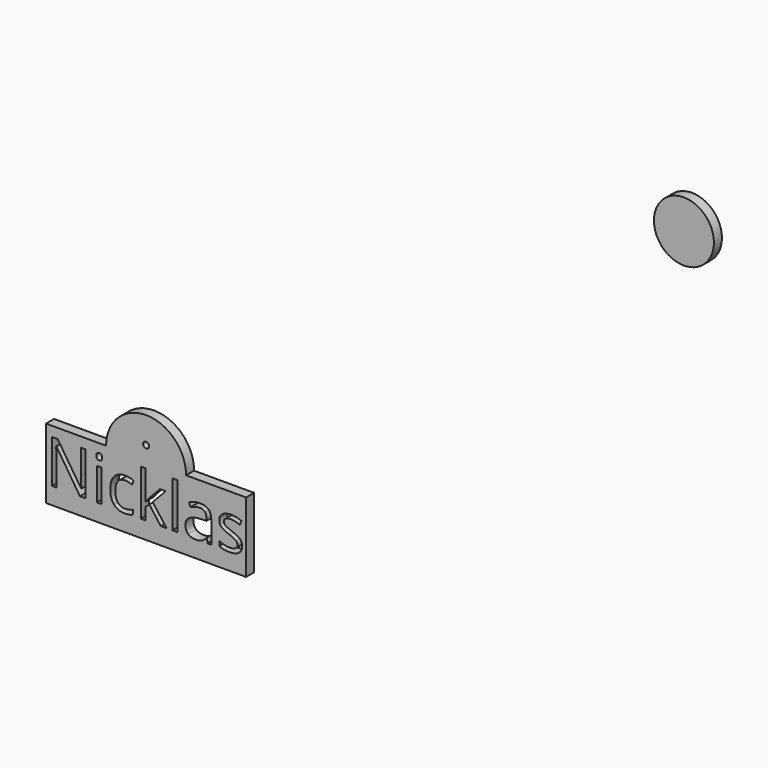
from build123d import *

# Parameters (mm, degrees)
F0_W     = 2.4478822753
F0_H     = 16.1541364022
F0_H_2   = 22.9365154231
F0_R     = 1.5
F1_DEPTH = 5
F0_R_2   = 15


with BuildPart() as f1:
    # F0 (on Front) → F1 (new body)
    with BuildSketch(Plane.XZ):
        Polygon((-230.908769023, -170.0551700472), (-260.908769023, -170.0551700472), (-260.908769023, -205.0551700472), (-160.908769023, -205.0551700472), (-160.908769023, -170.0551700472), (-190.908769023, -170.0551700472), align=None)
        with BuildLine():
            Line((-241.113466693, -174.9745553729), (-241.113466693, -196.5244091602))
            Line((-241.113466693, -196.5244091602), (-243.9716876156, -196.5244091602))
            Line((-243.9716876156, -196.5244091602), (-255.7488784466, -178.4412094621))
            Line((-255.7488784466, -178.4412094621), (-255.866791851, -178.4412094621))
            add(Edge.make_bspline(
                [(-255.866791851, -178.4412094621), (-255.6309650422, -181.6248713808), (-255.6309650422, -184.2755647116)],
                knots=[0, 0, 0, 1, 1, 1], degree=2))
            Line((-255.6309650422, -184.2755647116), (-255.6309650422, -196.5244091602))
            Line((-255.6309650422, -196.5244091602), (-257.9467843046, -196.5244091602))
            Line((-257.9467843046, -196.5244091602), (-257.9467843046, -174.9745553729))
            Line((-257.9467843046, -174.9745553729), (-255.1168625991, -174.9745553729))
            Line((-255.1168625991, -174.9745553729), (-243.3679709851, -192.9870070284))
            Line((-243.3679709851, -192.9870070284), (-243.2500575807, -192.9870070284))
            add(Edge.make_bspline(
                [(-243.2500575807, -192.9870070284), (-243.2783567977, -192.5908179896), (-243.3821205936, -190.4306444211)],
                knots=[0, 0, 0, 1, 1, 1], degree=2))
            add(Edge.make_bspline(
                [(-243.3821205936, -190.4306444211), (-243.4858843895, -188.2704708525), (-243.4575851724, -187.3413132259)],
                knots=[0, 0, 0, 1, 1, 1], degree=2))
            Line((-243.4575851724, -187.3413132259), (-243.4575851724, -174.9745553729))
            Line((-243.4575851724, -174.9745553729), (-241.113466693, -174.9745553729))
        make_face(mode=Mode.SUBTRACT)
        with Locations((-234.3334459403, -188.4473409591)):
            Rectangle(F0_W, F0_H, mode=Mode.SUBTRACT)
        with BuildLine():
            add(Edge.make_bspline(
                [(-217.3845731924, -195.9772909638), (-219.0023451007, -196.8215509393), (-221.4643769845, -196.8215509393)],
                knots=[0, 0, 0, 1, 1, 1], degree=2))
            add(Edge.make_bspline(
                [(-221.4643769845, -196.8215509393), (-224.9734798993, -196.8215509393), (-226.8978266591, -194.6613773708)],
                knots=[0, 0, 0, 1, 1, 1], degree=2))
            add(Edge.make_bspline(
                [(-226.8978266591, -194.6613773708), (-228.8221734188, -192.5012038022), (-228.8221734188, -188.5487464869)],
                knots=[0, 0, 0, 1, 1, 1], degree=2))
            add(Edge.make_bspline(
                [(-228.8221734188, -188.5487464869), (-228.8221734188, -184.4972419119), (-226.8671691739, -182.2851864454)],
                knots=[0, 0, 0, 1, 1, 1], degree=2))
            add(Edge.make_bspline(
                [(-226.8671691739, -182.2851864454), (-224.912164929, -180.0731309789), (-221.3040147545, -180.0731309789)],
                knots=[0, 0, 0, 1, 1, 1], degree=2))
            add(Edge.make_bspline(
                [(-221.3040147545, -180.0731309789), (-220.1390303191, -180.0731309789), (-218.9740458837, -180.3254656643)],
                knots=[0, 0, 0, 1, 1, 1], degree=2))
            add(Edge.make_bspline(
                [(-218.9740458837, -180.3254656643), (-217.8090614482, -180.5778003497), (-217.1487463836, -180.9173909544)],
                knots=[0, 0, 0, 1, 1, 1], degree=2))
            Line((-217.1487463836, -180.9173909544), (-217.8986756356, -182.9926668718))
            add(Edge.make_bspline(
                [(-217.8986756356, -182.9926668718), (-218.7099198578, -182.6672258756), (-219.6673767015, -182.4549817477)],
                knots=[0, 0, 0, 1, 1, 1], degree=2))
            add(Edge.make_bspline(
                [(-219.6673767015, -182.4549817477), (-220.6248335452, -182.2427376198), (-221.3606131886, -182.2427376198)],
                knots=[0, 0, 0, 1, 1, 1], degree=2))
            add(Edge.make_bspline(
                [(-221.3606131886, -182.2427376198), (-226.2846769562, -182.2427376198), (-226.2846769562, -188.5204472698)],
                knots=[0, 0, 0, 1, 1, 1], degree=2))
            add(Edge.make_bspline(
                [(-226.2846769562, -188.5204472698), (-226.2846769562, -191.4965815968), (-225.0843184994, -193.0884125561)],
                knots=[0, 0, 0, 1, 1, 1], degree=2))
            add(Edge.make_bspline(
                [(-225.0843184994, -193.0884125561), (-223.8839600427, -194.6802435155), (-221.5256919548, -194.6802435155)],
                knots=[0, 0, 0, 1, 1, 1], degree=2))
            add(Edge.make_bspline(
                [(-221.5256919548, -194.6802435155), (-219.5070144715, -194.6802435155), (-217.3845731924, -193.8124008591)],
                knots=[0, 0, 0, 1, 1, 1], degree=2))
            Line((-217.3845731924, -193.8124008591), (-217.3845731924, -195.9772909638))
        make_face(mode=Mode.SUBTRACT)
        with BuildLine():
            add(Edge.make_bspline(
                [(-235.3522177542, -177.2243431287), (-235.7649146696, -176.8187210176), (-235.7649146696, -175.9933271868)],
                knots=[0, 0, 0, 1, 1, 1], degree=2))
            add(Edge.make_bspline(
                [(-235.7649146696, -175.9933271868), (-235.7649146696, -175.1537837475), (-235.3522177542, -174.7623112449)],
                knots=[0, 0, 0, 1, 1, 1], degree=2))
            add(Edge.make_bspline(
                [(-235.3522177542, -174.7623112449), (-234.9395208388, -174.3708387423), (-234.3169380636, -174.3708387423)],
                knots=[0, 0, 0, 1, 1, 1], degree=2))
            add(Edge.make_bspline(
                [(-234.3169380636, -174.3708387423), (-233.7273710417, -174.3708387423), (-233.3005245177, -174.7693860492)],
                knots=[0, 0, 0, 1, 1, 1], degree=2))
            add(Edge.make_bspline(
                [(-233.3005245177, -174.7693860492), (-232.8736779938, -175.1679333561), (-232.8736779938, -175.9933271868)],
                knots=[0, 0, 0, 1, 1, 1], degree=2))
            add(Edge.make_bspline(
                [(-232.8736779938, -175.9933271868), (-232.8736779938, -176.8187210176), (-233.3005245177, -177.2243431287)],
                knots=[0, 0, 0, 1, 1, 1], degree=2))
            add(Edge.make_bspline(
                [(-233.3005245177, -177.2243431287), (-233.7273710417, -177.6299652398), (-234.3169380636, -177.6299652398)],
                knots=[0, 0, 0, 1, 1, 1], degree=2))
            add(Edge.make_bspline(
                [(-234.3169380636, -177.6299652398), (-234.9395208388, -177.6299652398), (-235.3522177542, -177.2243431287)],
                knots=[0, 0, 0, 1, 1, 1], degree=2))
        make_face(mode=Mode.SUBTRACT)
        with BuildLine():
            Line((-211.2483596276, -188.256321244), (-211.1304462232, -188.256321244))
            add(Edge.make_bspline(
                [(-211.1304462232, -188.256321244), (-210.4984303757, -187.3554628344), (-209.2013829273, -185.8980531561)],
                knots=[0, 0, 0, 1, 1, 1], degree=2))
            Line((-209.2013829273, -185.8980531561), (-203.9848939169, -180.370272758))
            Line((-203.9848939169, -180.370272758), (-201.0795076325, -180.370272758))
            Line((-201.0795076325, -180.370272758), (-207.6260598446, -187.2516990385))
            Line((-207.6260598446, -187.2516990385), (-200.6220036235, -196.5244091602))
            Line((-200.6220036235, -196.5244091602), (-203.5839883419, -196.5244091602))
            Line((-203.5839883419, -196.5244091602), (-209.2909971147, -188.8883370916))
            Line((-209.2909971147, -188.8883370916), (-211.1304462232, -190.482526319))
            Line((-211.1304462232, -190.482526319), (-211.1304462232, -196.5244091602))
            Line((-211.1304462232, -196.5244091602), (-213.5500292814, -196.5244091602))
            Line((-213.5500292814, -196.5244091602), (-213.5500292814, -173.5878937372))
            Line((-213.5500292814, -173.5878937372), (-211.1304462232, -173.5878937372))
            Line((-211.1304462232, -173.5878937372), (-211.1304462232, -185.7518405346))
            add(Edge.make_bspline(
                [(-211.1304462232, -185.7518405346), (-211.1304462232, -186.5583682207), (-211.2483596276, -188.256321244)],
                knots=[0, 0, 0, 1, 1, 1], degree=2))
        make_face(mode=Mode.SUBTRACT)
        with Locations((-196.4832431292, -185.0561514487)):
            Rectangle(F0_W, F0_H_2, mode=Mode.SUBTRACT)
        with BuildLine():
            Line((-178.3222205842, -196.5244091602), (-180.1380870118, -196.5244091602))
            Line((-180.1380870118, -196.5244091602), (-180.623890238, -194.2227395064))
            Line((-180.623890238, -194.2227395064), (-180.7418036424, -194.2227395064))
            add(Edge.make_bspline(
                [(-180.7418036424, -194.2227395064), (-181.9492369034, -195.741464155), (-183.1495953601, -196.2815075472)],
                knots=[0, 0, 0, 1, 1, 1], degree=2))
            add(Edge.make_bspline(
                [(-183.1495953601, -196.2815075472), (-184.3499538169, -196.8215509393), (-186.151670636, -196.8215509393)],
                knots=[0, 0, 0, 1, 1, 1], degree=2))
            add(Edge.make_bspline(
                [(-186.151670636, -196.8215509393), (-188.5523875495, -196.8215509393), (-189.9154665043, -195.5811019251)],
                knots=[0, 0, 0, 1, 1, 1], degree=2))
            add(Edge.make_bspline(
                [(-189.9154665043, -195.5811019251), (-191.2785454592, -194.3406529108), (-191.2785454592, -192.0578494017)],
                knots=[0, 0, 0, 1, 1, 1], degree=2))
            add(Edge.make_bspline(
                [(-191.2785454592, -192.0578494017), (-191.2785454592, -187.1668013874), (-183.4538119435, -186.9309745786)],
                knots=[0, 0, 0, 1, 1, 1], degree=2))
            Line((-183.4538119435, -186.9309745786), (-180.7135044253, -186.8413603912))
            Line((-180.7135044253, -186.8413603912), (-180.7135044253, -185.8367381858))
            add(Edge.make_bspline(
                [(-180.7135044253, -185.8367381858), (-180.7135044253, -183.9359741069), (-181.5294651837, -183.0303991612)],
                knots=[0, 0, 0, 1, 1, 1], degree=2))
            add(Edge.make_bspline(
                [(-181.5294651837, -183.0303991612), (-182.3454259421, -182.1248242154), (-184.1471427613, -182.1248242154)],
                knots=[0, 0, 0, 1, 1, 1], degree=2))
            add(Edge.make_bspline(
                [(-184.1471427613, -182.1248242154), (-186.1658202446, -182.1248242154), (-188.7127497795, -183.3605566935)],
                knots=[0, 0, 0, 1, 1, 1], degree=2))
            Line((-188.7127497795, -183.3605566935), (-189.4673955676, -181.4880918317))
            add(Edge.make_bspline(
                [(-189.4673955676, -181.4880918317), (-188.2741119152, -180.8419263756), (-186.8520762581, -180.4740365539)],
                knots=[0, 0, 0, 1, 1, 1], degree=2))
            add(Edge.make_bspline(
                [(-186.8520762581, -180.4740365539), (-185.4300406011, -180.1061467322), (-183.9962136037, -180.1061467322)],
                knots=[0, 0, 0, 1, 1, 1], degree=2))
            add(Edge.make_bspline(
                [(-183.9962136037, -180.1061467322), (-181.1096934641, -180.1061467322), (-179.7159570241, -181.3866863039)],
                knots=[0, 0, 0, 1, 1, 1], degree=2))
            add(Edge.make_bspline(
                [(-179.7159570241, -181.3866863039), (-178.3222205842, -182.6672258756), (-178.3222205842, -185.4971475811)],
                knots=[0, 0, 0, 1, 1, 1], degree=2))
            Line((-178.3222205842, -185.4971475811), (-178.3222205842, -196.5244091602))
        make_face(mode=Mode.SUBTRACT)
        with BuildLine():
            add(Edge.make_bspline(
                [(-163.8754702776, -189.4496048965), (-162.8661315359, -190.510825536), (-162.8661315359, -192.119164372)],
                knots=[0, 0, 0, 1, 1, 1], degree=2))
            add(Edge.make_bspline(
                [(-162.8661315359, -192.119164372), (-162.8661315359, -194.3736686641), (-164.5452184145, -195.5976098017)],
                knots=[0, 0, 0, 1, 1, 1], degree=2))
            add(Edge.make_bspline(
                [(-164.5452184145, -195.5976098017), (-166.2243052931, -196.8215509393), (-169.2617545904, -196.8215509393)],
                knots=[0, 0, 0, 1, 1, 1], degree=2))
            add(Edge.make_bspline(
                [(-169.2617545904, -196.8215509393), (-172.4737157261, -196.8215509393), (-174.2707160091, -195.8027791253)],
                knots=[0, 0, 0, 1, 1, 1], degree=2))
            Line((-174.2707160091, -195.8027791253), (-174.2707160091, -193.5341252248))
            add(Edge.make_bspline(
                [(-174.2707160091, -193.5341252248), (-173.1057315737, -194.1236922467), (-171.773310104, -194.4609245833)],
                knots=[0, 0, 0, 1, 1, 1], degree=2))
            add(Edge.make_bspline(
                [(-171.773310104, -194.4609245833), (-170.4408886343, -194.7981569199), (-169.2004396201, -194.7981569199)],
                knots=[0, 0, 0, 1, 1, 1], degree=2))
            add(Edge.make_bspline(
                [(-169.2004396201, -194.7981569199), (-167.2855259327, -194.7981569199), (-166.2549627783, -194.1873654851)],
                knots=[0, 0, 0, 1, 1, 1], degree=2))
            add(Edge.make_bspline(
                [(-166.2549627783, -194.1873654851), (-165.2243996239, -193.5765740503), (-165.2243996239, -192.3219754276)],
                knots=[0, 0, 0, 1, 1, 1], degree=2))
            add(Edge.make_bspline(
                [(-165.2243996239, -192.3219754276), (-165.2243996239, -191.3786681924), (-166.0403603823, -190.7089200554)],
                knots=[0, 0, 0, 1, 1, 1], degree=2))
            add(Edge.make_bspline(
                [(-166.0403603823, -190.7089200554), (-166.8563211407, -190.0391719185), (-169.2334553733, -189.1241639004)],
                knots=[0, 0, 0, 1, 1, 1], degree=2))
            add(Edge.make_bspline(
                [(-169.2334553733, -189.1241639004), (-171.4879596654, -188.2846204611), (-172.4383417048, -187.6573211497)],
                knots=[0, 0, 0, 1, 1, 1], degree=2))
            add(Edge.make_bspline(
                [(-172.4383417048, -187.6573211497), (-173.3887237442, -187.0300218383), (-173.8533025576, -186.2352854927)],
                knots=[0, 0, 0, 1, 1, 1], degree=2))
            add(Edge.make_bspline(
                [(-173.8533025576, -186.2352854927), (-174.3178813709, -185.440549147), (-174.3178813709, -184.3368796819)],
                knots=[0, 0, 0, 1, 1, 1], degree=2))
            add(Edge.make_bspline(
                [(-174.3178813709, -184.3368796819), (-174.3178813709, -182.3606510242), (-172.7095425349, -181.2168910016)],
                knots=[0, 0, 0, 1, 1, 1], degree=2))
            add(Edge.make_bspline(
                [(-172.7095425349, -181.2168910016), (-171.101203699, -180.0731309789), (-168.3042977467, -180.0731309789)],
                knots=[0, 0, 0, 1, 1, 1], degree=2))
            add(Edge.make_bspline(
                [(-168.3042977467, -180.0731309789), (-165.6960532414, -180.0731309789), (-163.2010056044, -181.1343516185)],
                knots=[0, 0, 0, 1, 1, 1], degree=2))
            Line((-163.2010056044, -181.1343516185), (-164.073564797, -183.1247298847))
            add(Edge.make_bspline(
                [(-164.073564797, -183.1247298847), (-166.5025809275, -182.1248242154), (-168.4788095852, -182.1248242154)],
                knots=[0, 0, 0, 1, 1, 1], degree=2))
            add(Edge.make_bspline(
                [(-168.4788095852, -182.1248242154), (-170.2192114341, -182.1248242154), (-171.103561967, -182.6695841437)],
                knots=[0, 0, 0, 1, 1, 1], degree=2))
            add(Edge.make_bspline(
                [(-171.103561967, -182.6695841437), (-171.9879125, -183.214344072), (-171.9879125, -184.1718009157)],
                knots=[0, 0, 0, 1, 1, 1], degree=2))
            add(Edge.make_bspline(
                [(-171.9879125, -184.1718009157), (-171.9879125, -184.822682908), (-171.6553966996, -185.277828649)],
                knots=[0, 0, 0, 1, 1, 1], degree=2))
            add(Edge.make_bspline(
                [(-171.6553966996, -185.277828649), (-171.3228808992, -185.7329743899), (-170.5871012558, -186.1456713053)],
                knots=[0, 0, 0, 1, 1, 1], degree=2))
            add(Edge.make_bspline(
                [(-170.5871012558, -186.1456713053), (-169.8513216124, -186.5583682207), (-167.7571795503, -187.3413132259)],
                knots=[0, 0, 0, 1, 1, 1], degree=2))
            add(Edge.make_bspline(
                [(-167.7571795503, -187.3413132259), (-164.8848090192, -188.3883842569), (-163.8754702776, -189.4496048965)],
                knots=[0, 0, 0, 1, 1, 1], degree=2))
        make_face(mode=Mode.SUBTRACT)
        with BuildLine():
            ThreePointArc((-190.908769023, -170.0551700472), (-210.908769023, -150.0551700472), (-230.908769023, -170.0551700472))
            Line((-230.908769023, -170.0551700472), (-190.908769023, -170.0551700472))
        make_face()
        with Locations((-210.908769023, -163.2996020518)):
            Circle(F0_R, mode=Mode.SUBTRACT)
    extrude(amount=F1_DEPTH)


with BuildPart() as f1b:
    # F0 (on Front) → F1, piece 2 (new body)
    with BuildSketch(Plane.XZ):
        with Locations((57.9947610577, 18.2031932731)):
            Circle(F0_R_2)
    extrude(amount=F1_DEPTH)


solid = Compound([f1.part, f1b.part])
